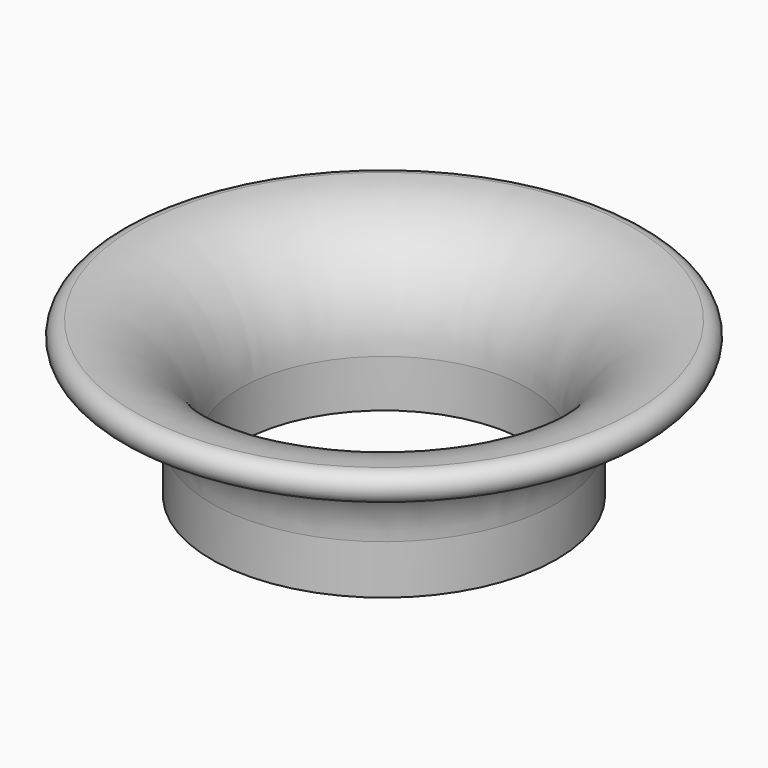
from build123d import *


with BuildPart() as f1:
    # F0 (on Front) → F1 (revolve)
    with BuildSketch(Plane.XZ):
        with BuildLine():
            ThreePointArc((10.96664, 27.168383), (12.470163, 28.652349), (10.96664, 30.136315))
            ThreePointArc((10.96664, 30.136315), (3.151835, 26.86412), (0, 19))
            Line((0, 19), (0.076762, 14.000589))
            Line((0.076762, 14.000589), (2.96664, 14.044961))
            Line((2.96664, 14.044961), (2.96664, 14.168383))
            Line((2.96664, 14.168383), (2.96664, 15.356337))
            Line((2.96664, 15.356337), (2.96664, 19.168383))
            ThreePointArc((2.96664, 19.168383), (5.309785, 24.825237), (10.96664, 27.168383))
        make_face()
    revolve(axis=Axis((-15, 0, 28.455103), (0, 0, 1)))


solid = f1.part
